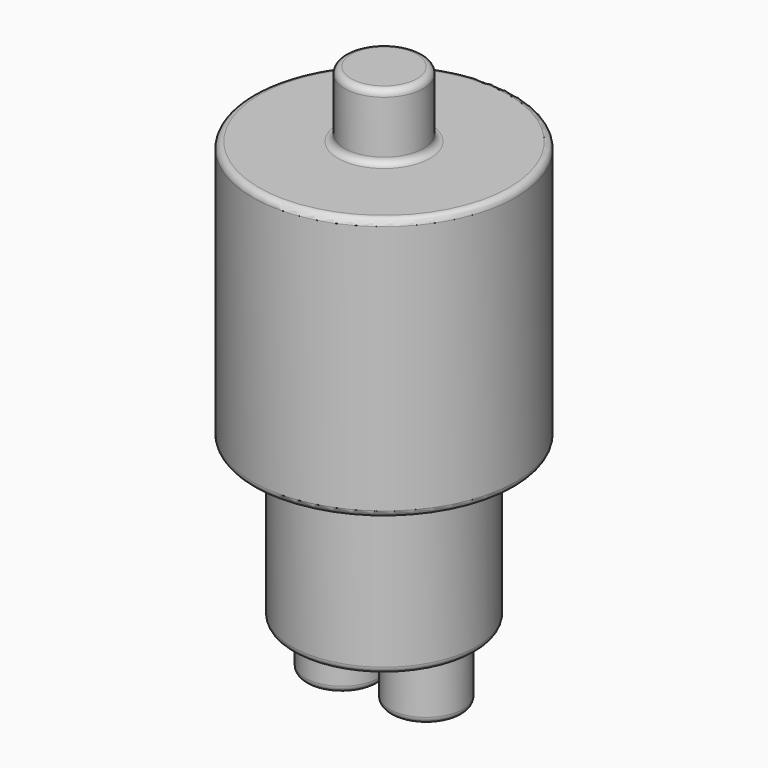
from build123d import *

# Parameters (mm, degrees)
CYLINDER001_R     = 1.5
CYLINDER001_DEPTH = 2.5
CYLINDER002_R     = 3.5
CYLINDER002_DEPTH = 6
CYLINDER003_R     = 1.4
CYLINDER003_DEPTH = 8.25
CYLINDER004_R     = 1.4
CYLINDER004_DEPTH = 8.25
CYLINDER_R        = 5
CYLINDER_DEPTH    = 10
FILLET_R          = 0.25
FILLET001_R       = 0.25
FILLET002_R       = 0.25
FILLET003_R       = 0.25
FILLET004_R       = 0.25
FILLET005_R       = 0.25
FILLET006_R       = 0.25


with BuildPart() as cylinder001:
    # cylinder001 → cylinder001 (new body)
    with BuildSketch(Plane.XY.offset(10)):
        Circle(CYLINDER001_R)
    extrude(amount=CYLINDER001_DEPTH)


with BuildPart() as cylinder002:
    # cylinder002 → cylinder002 (new body)
    with BuildSketch(Plane.XY.offset(-6)):
        Circle(CYLINDER002_R)
    extrude(amount=CYLINDER002_DEPTH)


with BuildPart() as cylinder003:
    # cylinder003 → cylinder003 (new body)
    with BuildSketch(Plane(origin=(-1.6, 0, -8.25), x_dir=(1, 0, 0), z_dir=(0, 0, 1))):
        Circle(CYLINDER003_R)
    extrude(amount=CYLINDER003_DEPTH)


with BuildPart() as cylinder004:
    # cylinder004 → cylinder004 (new body)
    with BuildSketch(Plane(origin=(1.6, 0, -8.25), x_dir=(1, 0, 0), z_dir=(0, 0, 1))):
        Circle(CYLINDER004_R)
    extrude(amount=CYLINDER004_DEPTH)


with BuildPart() as fillet006:
    # cylinder → cylinder (new body)
    with BuildSketch(Plane.XY):
        Circle(CYLINDER_R)
    extrude(amount=CYLINDER_DEPTH)

    # Group: union cylinder001, cylinder002, cylinder003, cylinder004
    add(cylinder001.part)
    add(cylinder002.part)
    add(cylinder003.part)
    add(cylinder004.part)

    # Fillet
    fillet_edges = [fillet006.edges().sort_by_distance(p)[0] for p in [
        (-3.5, 0, -6),
    ]]
    fillet(fillet_edges, radius=FILLET_R)

    # Fillet001
    fillet001_edges = [fillet006.edges().sort_by_distance(p)[0] for p in [
        (-3, 0, -8.25),
        (0.2, 0, -8.25),
    ]]
    fillet(fillet001_edges, radius=FILLET001_R)

    # Fillet002
    fillet002_edges = [fillet006.edges().sort_by_distance(p)[0] for p in [
        (-3.5, 0, 0),
    ]]
    fillet(fillet002_edges, radius=FILLET002_R)

    # Fillet003
    fillet003_edges = [fillet006.edges().sort_by_distance(p)[0] for p in [
        (-5, 0, 0),
    ]]
    fillet(fillet003_edges, radius=FILLET003_R)

    # Fillet004
    fillet004_edges = [fillet006.edges().sort_by_distance(p)[0] for p in [
        (-5, 0, 10),
    ]]
    fillet(fillet004_edges, radius=FILLET004_R)

    # Fillet005
    fillet005_edges = [fillet006.edges().sort_by_distance(p)[0] for p in [
        (-1.5, 0, 10),
    ]]
    fillet(fillet005_edges, radius=FILLET005_R)

    # Fillet006
    fillet006_edges = [fillet006.edges().sort_by_distance(p)[0] for p in [
        (-1.5, 0, 12.5),
    ]]
    fillet(fillet006_edges, radius=FILLET006_R)


solid = fillet006.part
